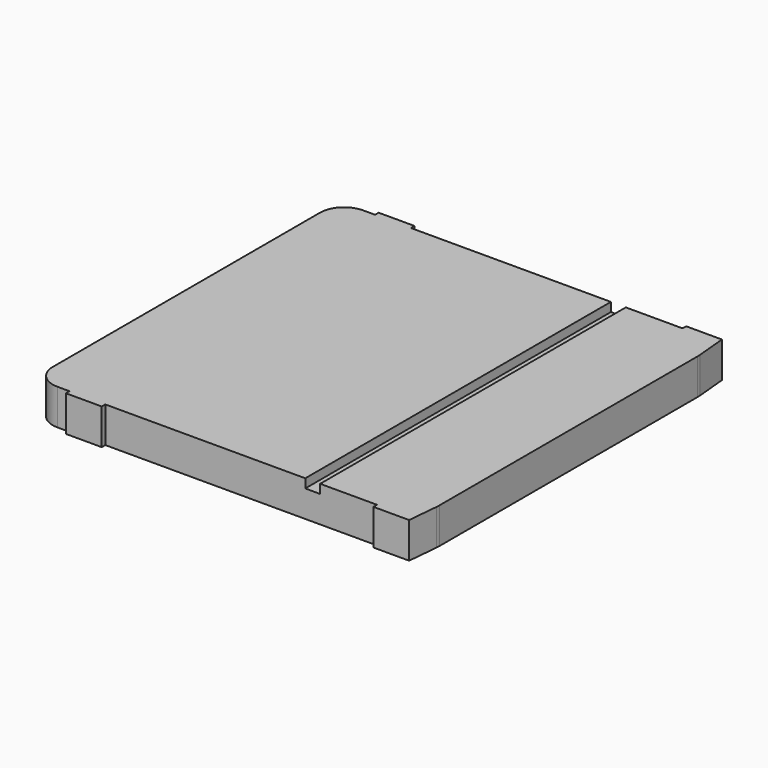
from build123d import *

# Parameters (mm, degrees)
F1_DEPTH = 38.1
F2_W     = 15.875
F2_H     = 406.4
F3_DEPTH = 9.525


with BuildPart() as f1:
    # F0 (on Top) → F1 (new body)
    with BuildSketch(Plane.XY):
        with BuildLine():
            Line((-165.1, 203.2), (-177.8, 203.2))
            ThreePointArc((-177.8, 203.2), (-195.760512, 195.760512), (-203.2, 177.8))
            Line((-203.2, 177.8), (-203.2, -177.8))
            ThreePointArc((-203.2, -177.8), (-195.760512, -195.760512), (-177.8, -203.2))
            Line((-177.8, -203.2), (-165.1, -203.2))
            Line((-165.1, -203.2), (-165.1, -207.9625))
            Line((-165.1, -207.9625), (-127, -207.9625))
            Line((-127, -207.9625), (-127, -203.2))
            Line((-127, -203.2), (161.925, -203.2))
            Line((161.925, -203.2), (161.925, -207.9625))
            Line((161.925, -207.9625), (200.025, -207.9625))
            Line((200.025, -207.9625), (203.039177, -175.261281))
            ThreePointArc((203.039177, -175.261281), (203.159773, -173.514641), (203.2, -171.764304))
            Line((203.2, -171.764304), (203.2, 171.764304))
            ThreePointArc((203.2, 171.764304), (203.159773, 173.514641), (203.039177, 175.261281))
            Line((203.039177, 175.261281), (200.025, 207.9625))
            Line((200.025, 207.9625), (161.925, 207.9625))
            Line((161.925, 207.9625), (161.925, 203.2))
            Line((161.925, 203.2), (-127, 203.2))
            Line((-127, 203.2), (-127, 207.9625))
            Line((-127, 207.9625), (-165.1, 207.9625))
            Line((-165.1, 207.9625), (-165.1, 203.2))
        make_face()
    extrude(amount=-F1_DEPTH)

    # F2 (on face) → F3 (cut)
    with BuildSketch(Plane.XY):
        with Locations((93.6625, 0)):
            Rectangle(F2_W, F2_H)
    extrude(amount=-F3_DEPTH, mode=Mode.SUBTRACT)


solid = f1.part
